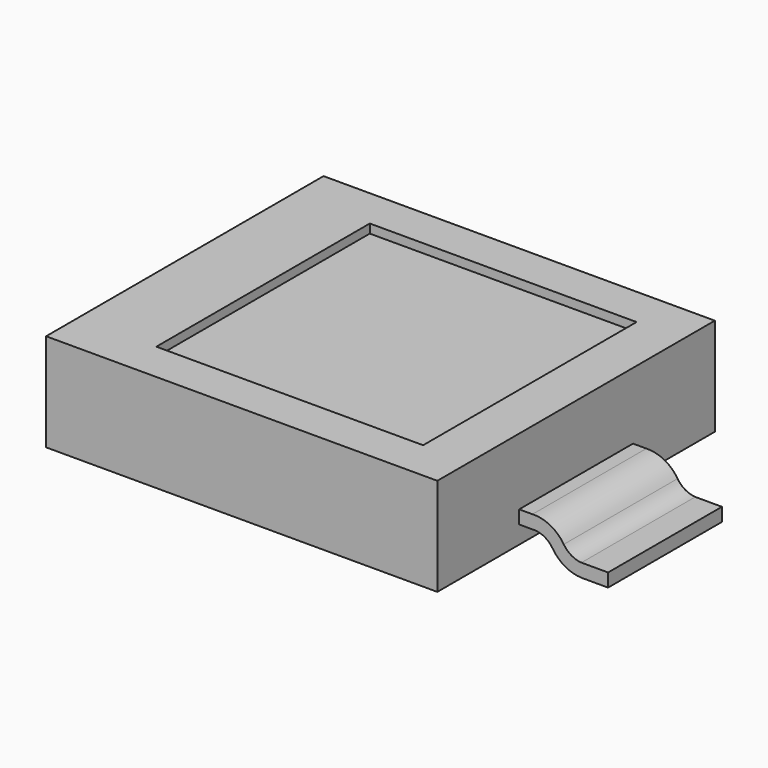
from build123d import *

# Parameters (mm, degrees)
PAD_START       = 0.1
SKETCH_W        = 4.4
SKETCH_H        = 3.9
PAD_DEPTH       = 1.1
PAD001_DEPTH    = 0.8
POCKET_DEPTH    = 1.201
SKETCH003_W     = 3
SKETCH003_H     = 3
POCKET001_DEPTH = 0.1


with BuildPart() as part:
    # Sketch → Pad (new body)
    with BuildSketch(Plane.XY.offset(PAD_START)):
        Rectangle(SKETCH_W, SKETCH_H)
    extrude(amount=PAD_DEPTH)

    # Sketch001 → Pad001 (join, symmetric)
    with BuildSketch(Plane.XZ):
        with BuildLine():
            Line((-3.2, 0), (-2.9, 0))
            ThreePointArc((-2.9, 0), (-2.714978, 0.052958), (-2.575471, 0.185532))
            ThreePointArc((-2.35, 0.3), (-2.47829, 0.273404), (-2.575471, 0.185532))
            Line((-2.2, 0.3), (-2.35, 0.3))
            Line((-2.2, 0.45), (-2.2, 0.3))
            Line((-2.35, 0.45), (-2.2, 0.45))
            ThreePointArc((-2.35, 0.45), (-2.550176, 0.404908), (-2.701586, 0.26642))
            ThreePointArc((-2.9, 0.15), (-2.78686, 0.184464), (-2.701586, 0.26642))
            Line((-2.9, 0.15), (-3.2, 0.15))
            Line((-3.2, 0.15), (-3.2, 0))
        make_face()
    pad001 = extrude(amount=PAD001_DEPTH, both=True)

    # Mirrored: Pad001 across Sketch001 V_Axis
    add(pad001.mirror(Plane(origin=(0, 0, 0), x_dir=(0, -1, 0), z_dir=(1, 0, 0))))

    # Sketch002 → Pocket (cut, through all)
    with BuildSketch(Plane.XY):
        with BuildLine():
            Line((-5.2, 1.5), (-3.2, 1.5))
            Line((-3.2, 1.5), (-2.7, 1.5))
            Line((-2.7, 0.65), (-2.7, 1.5))
            ThreePointArc((-2.95, 0.4), (-2.773223, 0.473223), (-2.7, 0.65))
            Line((-3.2, 0.4), (-2.95, 0.4))
            Line((-3.2, -0.4), (-3.2, 0.4))
            Line((-3.2, -0.4), (-2.95, -0.4))
            ThreePointArc((-2.7, -0.65), (-2.773223, -0.473223), (-2.95, -0.4))
            Line((-2.7, -1.5), (-2.7, -0.65))
            Line((-2.7, -1.5), (-3.2, -1.5))
            Line((-3.2, -1.5), (-5.2, -1.5))
            Line((-5.2, -1.5), (-5.2, 1.5))
        make_face()
    extrude(amount=POCKET_DEPTH, mode=Mode.SUBTRACT)

    # Sketch003 (on Face5 of Pocket) → Pocket001 (cut)
    with BuildSketch(Plane.XY.offset(1.2)):
        with Locations((0.18, 0)):
            Rectangle(SKETCH003_W, SKETCH003_H)
    extrude(amount=-POCKET001_DEPTH, mode=Mode.SUBTRACT)


solid = part.part
